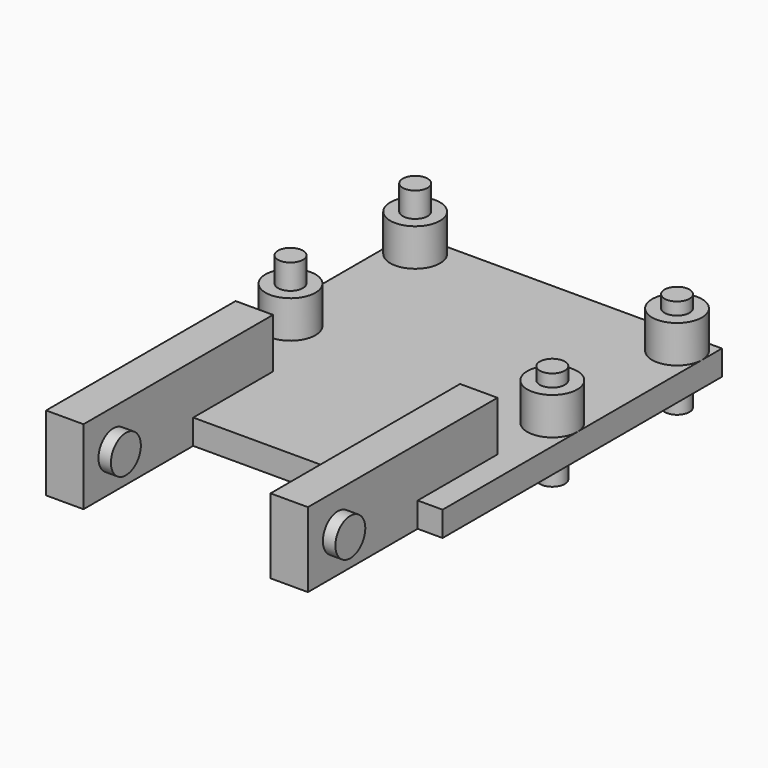
from build123d import *

# Parameters (mm, degrees)
BOX_W                   = 25
BOX_H                   = 28
BOX_DEPTH               = 2
CYLINDER_R              = 2
CYLINDER_DEPTH          = 5
CYLINDER001_R           = 2
CYLINDER001_DEPTH       = 5
CYLINDER002_R           = 2
CYLINDER002_DEPTH       = 5
CYLINDER003_R           = 2
CYLINDER003_DEPTH       = 5
CYLINDER004_R           = 1
CYLINDER004_DEPTH       = 8
CYLINDER005_R           = 1
CYLINDER005_DEPTH       = 8
CYLINDER006_R           = 1
CYLINDER006_DEPTH       = 8
CYLINDER007_R           = 1
CYLINDER007_DEPTH       = 8
BOX001_W                = 3
BOX001_H                = 19
BOX001_DEPTH            = 6
BOX002_W                = 3
BOX002_H                = 19
BOX002_DEPTH            = 6
CYLINDER008_R           = 1.5
CYLINDER008_DEPTH       = 5
CYLINDER008_PITCH_ANGLE = 90
CYLINDER009_R           = 1.5
CYLINDER009_DEPTH       = 5
CYLINDER009_PITCH_ANGLE = 90


with BuildPart() as cube:
    # Box → Box (new body)
    with BuildSketch(Plane(origin=(0, -4, 0), x_dir=(1, 0, 0), z_dir=(0, 0, 1))):
        with Locations((12.5, 14)):
            Rectangle(BOX_W, BOX_H)
    extrude(amount=BOX_DEPTH)


with BuildPart() as cylinder:
    # Cylinder → Cylinder (new body)
    with BuildSketch(Plane(origin=(2, 9.5, 0), x_dir=(1, 0, 0), z_dir=(0, 0, 1))):
        Circle(CYLINDER_R)
    extrude(amount=CYLINDER_DEPTH)


with BuildPart() as cylinder001:
    # Cylinder001 → Cylinder001 (new body)
    with BuildSketch(Plane(origin=(2, 22, 0), x_dir=(1, 0, 0), z_dir=(0, 0, 1))):
        Circle(CYLINDER001_R)
    extrude(amount=CYLINDER001_DEPTH)


with BuildPart() as cylinder002:
    # Cylinder002 → Cylinder002 (new body)
    with BuildSketch(Plane(origin=(23, 22, 0), x_dir=(1, 0, 0), z_dir=(0, 0, 1))):
        Circle(CYLINDER002_R)
    extrude(amount=CYLINDER002_DEPTH)


with BuildPart() as cylinder003:
    # Cylinder003 → Cylinder003 (new body)
    with BuildSketch(Plane(origin=(23, 9.5, 0), x_dir=(1, 0, 0), z_dir=(0, 0, 1))):
        Circle(CYLINDER003_R)
    extrude(amount=CYLINDER003_DEPTH)


with BuildPart() as cylinder004:
    # Cylinder004 → Cylinder004 (new body)
    with BuildSketch(Plane(origin=(2, 9.5, -1), x_dir=(1, 0, 0), z_dir=(0, 0, 1))):
        Circle(CYLINDER004_R)
    extrude(amount=CYLINDER004_DEPTH)


with BuildPart() as cylinder005:
    # Cylinder005 → Cylinder005 (new body)
    with BuildSketch(Plane(origin=(2, 22, -1), x_dir=(1, 0, 0), z_dir=(0, 0, 1))):
        Circle(CYLINDER005_R)
    extrude(amount=CYLINDER005_DEPTH)


with BuildPart() as cylinder006:
    # Cylinder006 → Cylinder006 (new body)
    with BuildSketch(Plane(origin=(23, 22, -2), x_dir=(1, 0, 0), z_dir=(0, 0, 1))):
        Circle(CYLINDER006_R)
    extrude(amount=CYLINDER006_DEPTH)


with BuildPart() as cylinder007:
    # Cylinder007 → Cylinder007 (new body)
    with BuildSketch(Plane(origin=(23, 9.5, -2), x_dir=(1, 0, 0), z_dir=(0, 0, 1))):
        Circle(CYLINDER007_R)
    extrude(amount=CYLINDER007_DEPTH)


with BuildPart() as cube001:
    # Box001 → Box001 (new body)
    with BuildSketch(Plane(origin=(20, -15, 0), x_dir=(1, 0, 0), z_dir=(0, 0, 1))):
        with Locations((1.5, 9.5)):
            Rectangle(BOX001_W, BOX001_H)
    extrude(amount=BOX001_DEPTH)


with BuildPart() as cube002:
    # Box002 → Box002 (new body)
    with BuildSketch(Plane(origin=(2, -15, 0), x_dir=(1, 0, 0), z_dir=(0, 0, 1))):
        with Locations((1.5, 9.5)):
            Rectangle(BOX002_W, BOX002_H)
    extrude(amount=BOX002_DEPTH)


with BuildPart() as cylinder008:
    # Cylinder008 → Cylinder008 (new body)
    with BuildSketch(Plane.XY):
        Circle(CYLINDER008_R)
    extrude(amount=CYLINDER008_DEPTH)


with BuildPart() as cylinder008_1:
    # Cylinder008 pitch: moved
    add(cylinder008.part.rotate(Axis((0, 0, 0), (0, 1, 0)), CYLINDER008_PITCH_ANGLE))


with BuildPart() as cylinder008_2:
    # Cylinder008 placement: moved
    add(cylinder008_1.part.moved(Location((19, -12, 3))))


with BuildPart() as cylinder009:
    # Cylinder009 → Cylinder009 (new body)
    with BuildSketch(Plane.XY):
        Circle(CYLINDER009_R)
    extrude(amount=CYLINDER009_DEPTH)


with BuildPart() as cylinder009_1:
    # Cylinder009 pitch: moved
    add(cylinder009.part.rotate(Axis((0, 0, 0), (0, 1, 0)), CYLINDER009_PITCH_ANGLE))


with BuildPart() as cylinder009_2:
    # Cylinder009 placement: moved
    add(cylinder009_1.part.moved(Location((1, -12, 3))))


solid = Compound([cube.part, cylinder.part, cylinder001.part, cylinder002.part, cylinder003.part, cylinder004.part, cylinder005.part, cylinder006.part, cylinder007.part, cube001.part, cube002.part, cylinder008_2.part, cylinder009_2.part])
